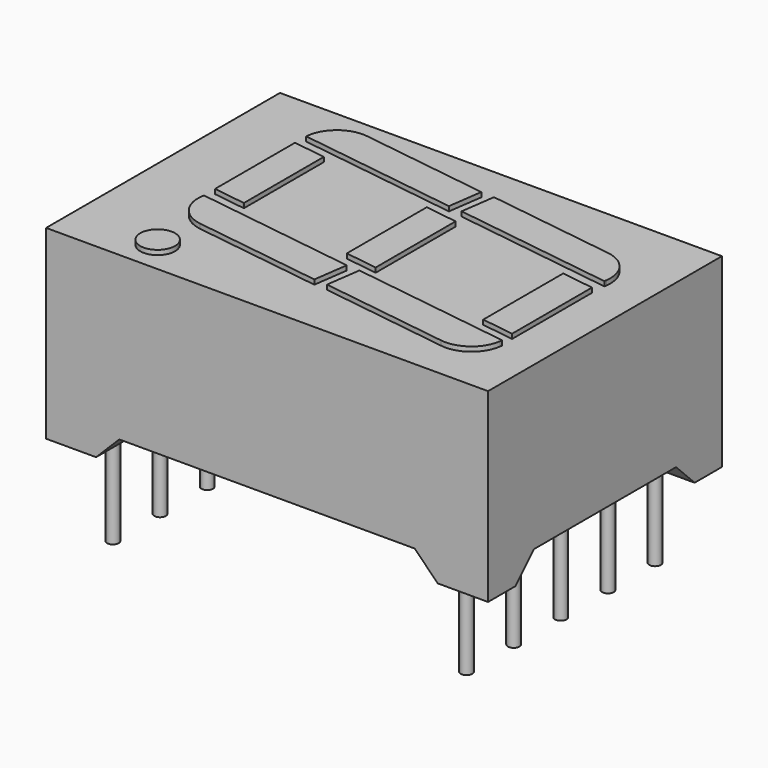
from build123d import *

# Parameters (mm, degrees)
CYLINDER_R                 = 0.25
CYLINDER_DEPTH             = 5
CYLINDER001_R              = 0.25
CYLINDER001_DEPTH          = 5
CYLINDER002_R              = 0.25
CYLINDER002_DEPTH          = 5
CYLINDER003_R              = 0.25
CYLINDER003_DEPTH          = 5
CYLINDER004_R              = 0.25
CYLINDER004_DEPTH          = 5
CYLINDER005_R              = 0.25
CYLINDER005_DEPTH          = 5
CYLINDER006_R              = 0.25
CYLINDER006_DEPTH          = 5
CYLINDER007_R              = 0.25
CYLINDER007_DEPTH          = 5
CYLINDER008_R              = 0.25
CYLINDER008_DEPTH          = 5
CYLINDER009_R              = 0.25
CYLINDER009_DEPTH          = 5
BOX003_W                   = 7
BOX003_H                   = 1.5
BOX003_DEPTH               = 2
BOX003_PLACEMENT_ANGLE     = -8
FILLET003_R                = 1.4
BOX002_W                   = 7
BOX002_H                   = 1.5
BOX002_DEPTH               = 2
BOX002_PLACEMENT_ANGLE     = -8
FILLET_R                   = 1.4
BOX004_W                   = 7
BOX004_H                   = 1.5
BOX004_DEPTH               = 2
BOX004_PLACEMENT_ANGLE     = -8
FILLET002_R                = 1.4
CYLINDER010_R              = 0.75
CYLINDER010_DEPTH          = 2
BOX014_W                   = 7
BOX014_H                   = 1.4
BOX014_DEPTH               = 2
BOX014_PLACEMENT_ANGLE     = -8
BOX013_W                   = 7
BOX013_H                   = 1.4
BOX013_DEPTH               = 2
BOX013_PLACEMENT_ANGLE     = -8
BOX012_W                   = 1.4
BOX012_H                   = 4.5
BOX012_DEPTH               = 2
BOX005_W                   = 7
BOX005_H                   = 1.5
BOX005_DEPTH               = 2
BOX005_PLACEMENT_ANGLE     = -8
FILLET001_R                = 1.4
BOX011_W                   = 7
BOX011_H                   = 1.4
BOX011_DEPTH               = 2
BOX011_PLACEMENT_ANGLE     = -8
BOX010_W                   = 7
BOX010_H                   = 1.4
BOX010_DEPTH               = 2
BOX010_PLACEMENT_ANGLE     = -8
BOX009_W                   = 1.4
BOX009_H                   = 4.5
BOX009_DEPTH               = 2
BOX008_W                   = 7
BOX008_H                   = 1.4
BOX008_DEPTH               = 2
BOX008_PLACEMENT_ANGLE     = -8
BOX007_W                   = 7
BOX007_H                   = 1.4
BOX007_DEPTH               = 2
BOX007_PLACEMENT_ANGLE     = -8
BOX006_W                   = 1.4
BOX006_H                   = 4.5
BOX006_DEPTH               = 2
BOX_W                      = 9.66
BOX_H                      = 22
BOX_DEPTH                  = 2
CHAMFER_SIZE               = 1
CHAMFER001_SIZE            = 1
CHAMFER001_PLACEMENT_ANGLE = -90
BOX001_W                   = 16
BOX001_H                   = 14.73
BOX001_DEPTH               = 2
CHAMFER002_SIZE            = 1
CHAMFER003_SIZE            = 1
CHAMFER003_PLACEMENT_ANGLE = -90
SKETCH_W                   = 19.05
SKETCH_H                   = 12.6
PAD_DEPTH                  = 8


with BuildPart() as pin001:
    # Cylinder → Cylinder (new body)
    with BuildSketch(Plane.XY.offset(-3.76)):
        Circle(CYLINDER_R)
    extrude(amount=CYLINDER_DEPTH)


with BuildPart() as pin002:
    # Cylinder001 → Cylinder001 (new body)
    with BuildSketch(Plane(origin=(0, -2.54, -3.76), x_dir=(1, 0, 0), z_dir=(0, 0, 1))):
        Circle(CYLINDER001_R)
    extrude(amount=CYLINDER001_DEPTH)


with BuildPart() as pin003:
    # Cylinder002 → Cylinder002 (new body)
    with BuildSketch(Plane(origin=(0, -5.08, -3.76), x_dir=(1, 0, 0), z_dir=(0, 0, 1))):
        Circle(CYLINDER002_R)
    extrude(amount=CYLINDER002_DEPTH)


with BuildPart() as pin004:
    # Cylinder003 → Cylinder003 (new body)
    with BuildSketch(Plane(origin=(0, -7.62, -3.76), x_dir=(1, 0, 0), z_dir=(0, 0, 1))):
        Circle(CYLINDER003_R)
    extrude(amount=CYLINDER003_DEPTH)


with BuildPart() as pin005:
    # Cylinder004 → Cylinder004 (new body)
    with BuildSketch(Plane(origin=(0, -10.16, -3.76), x_dir=(1, 0, 0), z_dir=(0, 0, 1))):
        Circle(CYLINDER004_R)
    extrude(amount=CYLINDER004_DEPTH)


with BuildPart() as pin006:
    # Cylinder005 → Cylinder005 (new body)
    with BuildSketch(Plane(origin=(15.24, -10.16, -3.76), x_dir=(1, 0, 0), z_dir=(0, 0, 1))):
        Circle(CYLINDER005_R)
    extrude(amount=CYLINDER005_DEPTH)


with BuildPart() as pin007:
    # Cylinder006 → Cylinder006 (new body)
    with BuildSketch(Plane(origin=(15.24, -7.62, -3.76), x_dir=(1, 0, 0), z_dir=(0, 0, 1))):
        Circle(CYLINDER006_R)
    extrude(amount=CYLINDER006_DEPTH)


with BuildPart() as pin008:
    # Cylinder007 → Cylinder007 (new body)
    with BuildSketch(Plane(origin=(15.24, -5.08, -3.76), x_dir=(1, 0, 0), z_dir=(0, 0, 1))):
        Circle(CYLINDER007_R)
    extrude(amount=CYLINDER007_DEPTH)


with BuildPart() as pin009:
    # Cylinder008 → Cylinder008 (new body)
    with BuildSketch(Plane(origin=(15.24, -2.54, -3.76), x_dir=(1, 0, 0), z_dir=(0, 0, 1))):
        Circle(CYLINDER008_R)
    extrude(amount=CYLINDER008_DEPTH)


with BuildPart() as pin010:
    # Cylinder009 → Cylinder009 (new body)
    with BuildSketch(Plane(origin=(15.24, 0, -3.76), x_dir=(1, 0, 0), z_dir=(0, 0, 1))):
        Circle(CYLINDER009_R)
    extrude(amount=CYLINDER009_DEPTH)


with BuildPart() as fillet003:
    # Box003 → Box003 (new body)
    with BuildSketch(Plane.XY):
        with Locations((3.5, 0.75)):
            Rectangle(BOX003_W, BOX003_H)
    extrude(amount=BOX003_DEPTH)


with BuildPart() as fillet003_1:
    # Box003 placement: moved
    add(fillet003.part.moved(Location((8.8, 7, 6.2))).rotate(Axis((8.8, 7, 6.2), (0, 0, 1)), BOX003_PLACEMENT_ANGLE))

    # Fillet003
    fillet003_edges = [fillet003_1.edges().sort_by_distance(p)[0] for p in [
        (15.731876, 6.025788, 7.2),
    ]]
    fillet(fillet003_edges, radius=FILLET003_R)


with BuildPart() as fillet003_2:
    # Fillet003 placement: moved
    add(fillet003_1.part.moved(Location((-0.5, 0, 0))))


with BuildPart() as fillet_body:
    # Box002 → Box002 (new body)
    with BuildSketch(Plane.XY):
        with Locations((3.5, 0.75)):
            Rectangle(BOX002_W, BOX002_H)
    extrude(amount=BOX002_DEPTH)


with BuildPart() as fillet_body_1:
    # Box002 placement: moved
    add(fillet_body.part.moved(Location((-0.2, 8, 6.2))).rotate(Axis((-0.2, 8, 6.2), (0, 0, 1)), BOX002_PLACEMENT_ANGLE))

    # Fillet
    fillet_edges = [fillet_body_1.edges().sort_by_distance(p)[0] for p in [
        (-0.2, 8, 7.2),
    ]]
    fillet(fillet_edges, radius=FILLET_R)


with BuildPart() as fillet_body_2:
    # Fillet placement: moved
    add(fillet_body_1.part.moved(Location((1, 0, 0))))


with BuildPart() as fillet002:
    # Box004 → Box004 (new body)
    with BuildSketch(Plane.XY):
        with Locations((3.5, 0.75)):
            Rectangle(BOX004_W, BOX004_H)
    extrude(amount=BOX004_DEPTH)


with BuildPart() as fillet002_1:
    # Box004 placement: moved
    add(fillet002.part.moved(Location((9, 14, 6.2))).rotate(Axis((9, 14, 6.2), (0, 0, 1)), BOX004_PLACEMENT_ANGLE))

    # Fillet002
    fillet002_edges = [fillet002_1.edges().sort_by_distance(p)[0] for p in [
        (16.140636, 14.51119, 7.2),
    ]]
    fillet(fillet002_edges, radius=FILLET002_R)


with BuildPart() as fillet002_2:
    # Fillet002 placement: moved
    add(fillet002_1.part.moved(Location((-0.5, 0, 0))))


with BuildPart() as cylinder010:
    # Cylinder010 → Cylinder010 (new body)
    with BuildSketch(Plane(origin=(1.8, 6, 6.2), x_dir=(1, 0, 0), z_dir=(0, 0, 1))):
        Circle(CYLINDER010_R)
    extrude(amount=CYLINDER010_DEPTH)


with BuildPart() as kub014:
    # Box014 → Box014 (new body)
    with BuildSketch(Plane.XY):
        with Locations((3.5, 0.7)):
            Rectangle(BOX014_W, BOX014_H)
    extrude(amount=BOX014_DEPTH)


with BuildPart() as kub014_1:
    # Box014 placement: moved
    add(kub014.part.moved(Location((-10, 9.2, 6.2))).rotate(Axis((-10, 9.2, 6.2), (0, 0, 1)), BOX014_PLACEMENT_ANGLE))


with BuildPart() as kub013:
    # Box013 → Box013 (new body)
    with BuildSketch(Plane.XY):
        with Locations((3.5, 0.7)):
            Rectangle(BOX013_W, BOX013_H)
    extrude(amount=BOX013_DEPTH)


with BuildPart() as kub013_1:
    # Box013 placement: moved
    add(kub013.part.moved(Location((-9, 14.78, 6.2))).rotate(Axis((-9, 14.78, 6.2), (0, 0, 1)), BOX013_PLACEMENT_ANGLE))


with BuildPart() as cut007:
    # Box012 → Box012 (new body)
    with BuildSketch(Plane(origin=(-7, 10, 6.2), x_dir=(1, 0, 0), z_dir=(0, 0, 1))):
        with Locations((0.7, 2.25)):
            Rectangle(BOX012_W, BOX012_H)
    extrude(amount=BOX012_DEPTH)

    # Cut006: cut Kub013
    add(kub013_1.part, mode=Mode.SUBTRACT)

    # Cut007: cut Kub014
    add(kub014_1.part, mode=Mode.SUBTRACT)


with BuildPart() as cut007_1:
    # Cut007 placement: moved
    add(cut007.part.moved(Location((21, -1.9, 0))))


with BuildPart() as fillet001:
    # Box005 → Box005 (new body)
    with BuildSketch(Plane.XY):
        with Locations((3.5, 0.75)):
            Rectangle(BOX005_W, BOX005_H)
    extrude(amount=BOX005_DEPTH)


with BuildPart() as fillet001_1:
    # Box005 placement: moved
    add(fillet001.part.moved(Location((0, 15, 6.2))).rotate(Axis((0, 15, 6.2), (0, 0, 1)), BOX005_PLACEMENT_ANGLE))

    # Fillet001
    fillet001_edges = [fillet001_1.edges().sort_by_distance(p)[0] for p in [
        (0.20876, 16.485402, 7.2),
    ]]
    fillet(fillet001_edges, radius=FILLET001_R)


with BuildPart() as fillet001_2:
    # Fillet001 placement: moved
    add(fillet001_1.part.moved(Location((1, 0, 0))))


with BuildPart() as kub011:
    # Box011 → Box011 (new body)
    with BuildSketch(Plane.XY):
        with Locations((3.5, 0.7)):
            Rectangle(BOX011_W, BOX011_H)
    extrude(amount=BOX011_DEPTH)


with BuildPart() as kub011_1:
    # Box011 placement: moved
    add(kub011.part.moved(Location((-10, 9.2, 6.2))).rotate(Axis((-10, 9.2, 6.2), (0, 0, 1)), BOX011_PLACEMENT_ANGLE))


with BuildPart() as kub010:
    # Box010 → Box010 (new body)
    with BuildSketch(Plane.XY):
        with Locations((3.5, 0.7)):
            Rectangle(BOX010_W, BOX010_H)
    extrude(amount=BOX010_DEPTH)


with BuildPart() as kub010_1:
    # Box010 placement: moved
    add(kub010.part.moved(Location((-9, 14.78, 6.2))).rotate(Axis((-9, 14.78, 6.2), (0, 0, 1)), BOX010_PLACEMENT_ANGLE))


with BuildPart() as cut005:
    # Box009 → Box009 (new body)
    with BuildSketch(Plane(origin=(-7, 10, 6.2), x_dir=(1, 0, 0), z_dir=(0, 0, 1))):
        with Locations((0.7, 2.25)):
            Rectangle(BOX009_W, BOX009_H)
    extrude(amount=BOX009_DEPTH)

    # Cut004: cut Kub010
    add(kub010_1.part, mode=Mode.SUBTRACT)

    # Cut005: cut Kub011
    add(kub011_1.part, mode=Mode.SUBTRACT)


with BuildPart() as cut005_1:
    # Cut005 placement: moved
    add(cut005.part.moved(Location((14.4, -1, 0))))


with BuildPart() as kub008:
    # Box008 → Box008 (new body)
    with BuildSketch(Plane.XY):
        with Locations((3.5, 0.7)):
            Rectangle(BOX008_W, BOX008_H)
    extrude(amount=BOX008_DEPTH)


with BuildPart() as kub008_1:
    # Box008 placement: moved
    add(kub008.part.moved(Location((-10, 9.2, 6.2))).rotate(Axis((-10, 9.2, 6.2), (0, 0, 1)), BOX008_PLACEMENT_ANGLE))


with BuildPart() as kub007:
    # Box007 → Box007 (new body)
    with BuildSketch(Plane.XY):
        with Locations((3.5, 0.7)):
            Rectangle(BOX007_W, BOX007_H)
    extrude(amount=BOX007_DEPTH)


with BuildPart() as kub007_1:
    # Box007 placement: moved
    add(kub007.part.moved(Location((-9, 14.78, 6.2))).rotate(Axis((-9, 14.78, 6.2), (0, 0, 1)), BOX007_PLACEMENT_ANGLE))


with BuildPart() as fusion:
    # Box006 → Box006 (new body)
    with BuildSketch(Plane(origin=(-7, 10, 6.2), x_dir=(1, 0, 0), z_dir=(0, 0, 1))):
        with Locations((0.7, 2.25)):
            Rectangle(BOX006_W, BOX006_H)
    extrude(amount=BOX006_DEPTH)

    # Cut002: cut Kub007
    add(kub007_1.part, mode=Mode.SUBTRACT)

    # Cut003: cut Kub008
    add(kub008_1.part, mode=Mode.SUBTRACT)


with BuildPart() as fusion_1:
    # Cut003 placement: moved
    add(fusion.part.moved(Location((8, -0.1, 0))))

    # Fusion: union Fillet003, Fillet body, Fillet002, Cylinder010, Cut007, Fillet001, Cut005
    add(fillet003_2.part)
    add(fillet_body_2.part)
    add(fillet002_2.part)
    add(cylinder010.part)
    add(cut007_1.part)
    add(fillet001_2.part)
    add(cut005_1.part)


with BuildPart() as fusion_2:
    # Fusion placement: moved
    add(fusion_1.part.moved(Location((0, -16, 0))))


with BuildPart() as chamfer001:
    # Box → Box (new body)
    with BuildSketch(Plane(origin=(0.25, -3, -1), x_dir=(1, 0, 0), z_dir=(0, 0, 1))):
        with Locations((4.83, 11)):
            Rectangle(BOX_W, BOX_H)
    extrude(amount=BOX_DEPTH)

    # Chamfer
    chamfer_edges = [chamfer001.edges().sort_by_distance(p)[0] for p in [
        (0.25, 8, 1),
    ]]
    chamfer(chamfer_edges, length=CHAMFER_SIZE)

    # Chamfer001
    chamfer001_edges = [chamfer001.edges().sort_by_distance(p)[0] for p in [
        (9.91, 8, 1),
    ]]
    chamfer(chamfer001_edges, length=CHAMFER001_SIZE)


with BuildPart() as chamfer001_1:
    # Chamfer001 placement: moved
    add(chamfer001.part.rotate(Axis((0, 0, 0), (0, 0, 1)), CHAMFER001_PLACEMENT_ANGLE))


with BuildPart() as chamfer003:
    # Box001 → Box001 (new body)
    with BuildSketch(Plane(origin=(-3, 0.25, -1), x_dir=(1, 0, 0), z_dir=(0, 0, 1))):
        with Locations((8, 7.365)):
            Rectangle(BOX001_W, BOX001_H)
    extrude(amount=BOX001_DEPTH)

    # Chamfer002
    chamfer002_edges = [chamfer003.edges().sort_by_distance(p)[0] for p in [
        (5, 0.25, 1),
    ]]
    chamfer(chamfer002_edges, length=CHAMFER002_SIZE)

    # Chamfer003
    chamfer003_edges = [chamfer003.edges().sort_by_distance(p)[0] for p in [
        (5, 14.98, 1),
    ]]
    chamfer(chamfer003_edges, length=CHAMFER003_SIZE)


with BuildPart() as chamfer003_1:
    # Chamfer003 placement: moved
    add(chamfer003.part.rotate(Axis((0, 0, 0), (0, 0, 1)), CHAMFER003_PLACEMENT_ANGLE))


with BuildPart() as cut008:
    # Sketch → Pad (new body)
    with BuildSketch(Plane.XY):
        with Locations((7.62, -5.08)):
            Rectangle(SKETCH_W, SKETCH_H)
    extrude(amount=PAD_DEPTH)

    # Cut: cut Chamfer003
    add(chamfer003_1.part, mode=Mode.SUBTRACT)

    # Cut008: cut Chamfer001
    add(chamfer001_1.part, mode=Mode.SUBTRACT)


solid = Compound([pin001.part, pin002.part, pin003.part, pin004.part, pin005.part, pin006.part, pin007.part, pin008.part, pin009.part, pin010.part, fusion_2.part, cut008.part])
